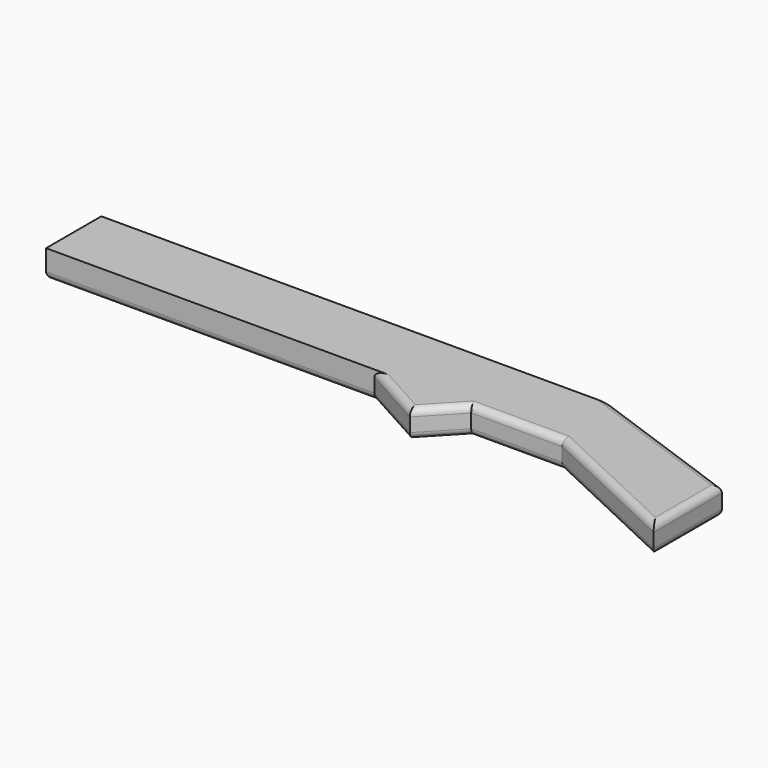
from build123d import *

# Parameters (mm, degrees)
F1_DEPTH = 2
F2_R     = 0.5
F3_R     = 0.5


with BuildPart() as f1:
    # F0 (on Top) → F1 (new body)
    with BuildSketch(Plane.XY):
        Polygon((37.371002, 0), (0, 0), (0, -5), (23.76816, -5), (28.375575, -7.545115), (30.788982, -5), (37.371002, -5), (48, -10), (48, -3.815304), align=None)
    extrude(amount=F1_DEPTH)

    # F2
    f2_edges = [f1.edges().sort_by_distance(p)[0] for p in [
        (48, -6.907652, 2),
        (42.685501, -7.5, 2),
        (34.079992, -5, 2),
        (29.582279, -6.272558, 2),
        (26.071868, -6.272558, 2),
        (42.685501, -1.907652, 2),
    ]]
    fillet(f2_edges, radius=F2_R)

    # F3
    f3_edges = [f1.edges().sort_by_distance(p)[0] for p in [
        (11.88408, -5, 0),
        (26.071868, -6.272558, 0),
        (29.582279, -6.272558, 0),
        (34.079992, -5, 0),
        (42.685501, -7.5, 0),
        (18.685501, 0, 0),
        (42.685501, -1.907652, 0),
        (0, -2.5, 0),
        (48, -6.907652, 0),
    ]]
    fillet(f3_edges, radius=F3_R)


solid = f1.part
